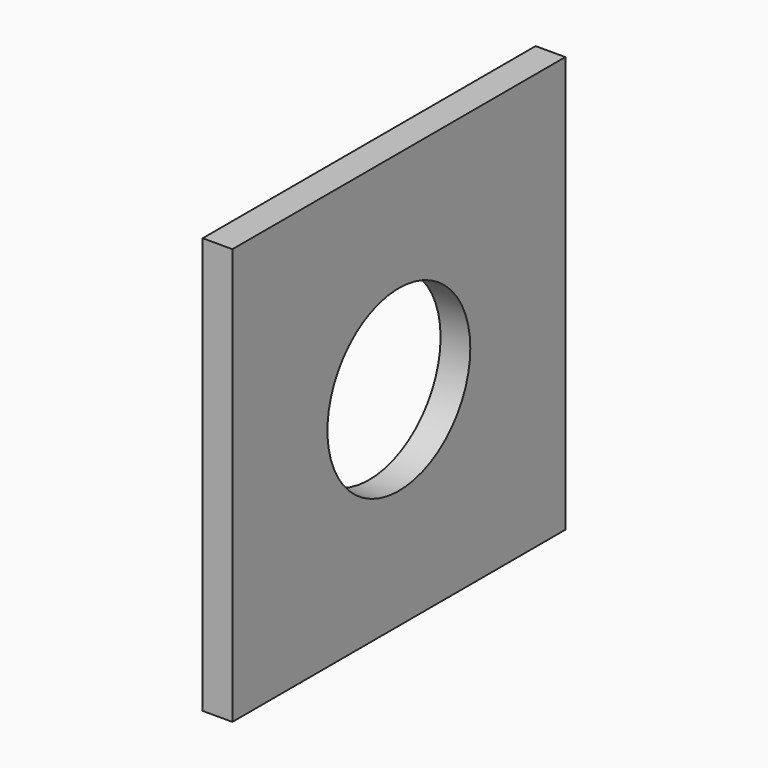
from build123d import *

# Parameters (mm, degrees)
F0_W     = 88.9
F0_H     = 88.9
F1_DEPTH = 3.175
F3_D     = 38.15


with BuildPart() as f1:
    # F0 (on Right) → F1 (new body, symmetric)
    with BuildSketch(Plane.YZ):
        with Locations((1.86388e-05, 0)):
            Rectangle(F0_W, F0_H)
    extrude(amount=F1_DEPTH, both=True)

    # F3 (through all)
    with Locations(Plane(origin=(-3.175, 0, 0), x_dir=(0, -1, 0), z_dir=(-1, 0, 0))):
        with Locations((-1.86388e-05, 0)):
            Hole(F3_D / 2)


solid = f1.part
